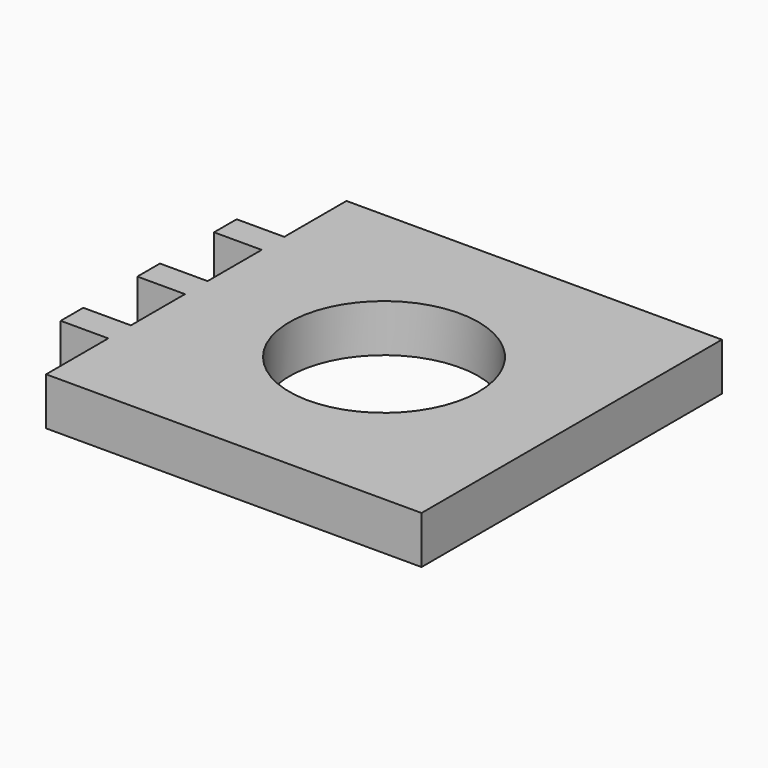
from build123d import *

# Parameters (mm, degrees)
F0_R     = 15.126169
F0_W     = 7.62
F0_H     = 4.5212
F1_DEPTH = 7.62
F2_R     = 1.271709
F3_DEPTH = 32.9692
F4_R     = 1.27
F5_DEPTH = 32.766


with BuildPart() as f1:
    # F0 (on Top) → F1 (new body)
    with BuildSketch(Plane.XY):
        Polygon((30.0482, 30.0482), (-30.0482, 30.0482), (-30.0482, 17.6022), (-30.0482, 13.081), (-30.0482, 2.2606), (-30.0482, -2.2606), (-30.0482, -13.081), (-30.0482, -17.6022), (-30.0482, -30.0482), (30.0482, -30.0482), align=None)
        Circle(F0_R, mode=Mode.SUBTRACT)
        with Locations((-33.8582, 15.3416)):
            Rectangle(F0_W, F0_H)
        with Locations((-33.8582, 0)):
            Rectangle(F0_W, F0_H)
        with Locations((-33.8582, -15.3416)):
            Rectangle(F0_W, F0_H)
    extrude(amount=F1_DEPTH)

    # F2 (on Right) → F3 (cut)
    with BuildSketch(Plane.YZ):
        with Locations((26.236491, 3.808291)):
            Circle(F2_R)
    extrude(amount=-F3_DEPTH, mode=Mode.SUBTRACT)

    # F4 (on Right) → F5 (cut)
    with BuildSketch(Plane.YZ):
        with Locations((-26.2382, 3.81)):
            Circle(F4_R)
    extrude(amount=-F5_DEPTH, mode=Mode.SUBTRACT)


solid = f1.part
